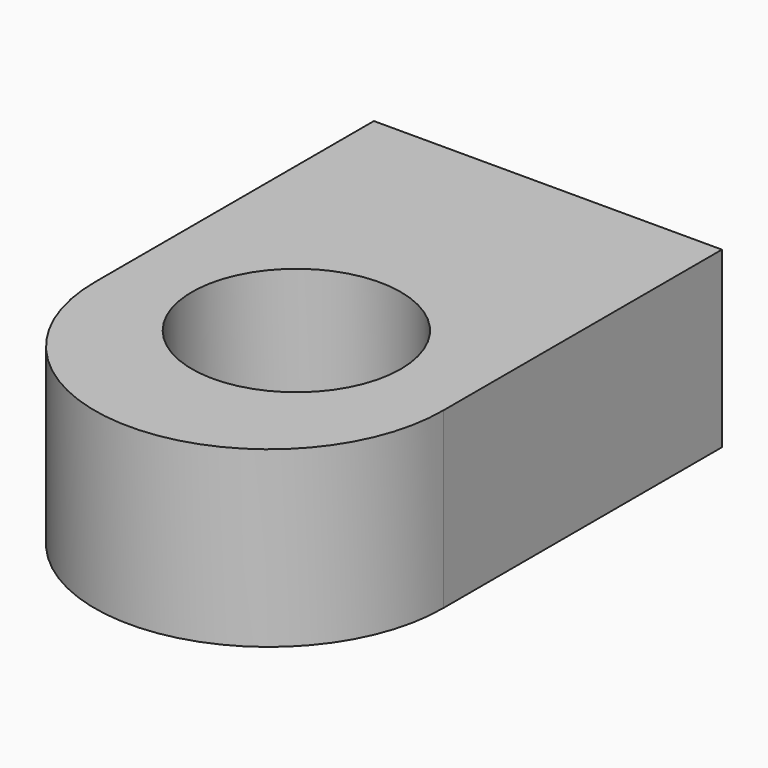
from build123d import *

# Parameters (mm, degrees)
F0_W     = 25.4
F0_H     = 25.4
F1_DEPTH = 12.7
F2_R     = 12.7
F3_DEPTH = 12.7
F4_R     = 7.62
F5_DEPTH = 12.701


with BuildPart() as f1:
    # F0 (on Top) → F1 (new body)
    with BuildSketch(Plane.XY):
        Rectangle(F0_W, F0_H)
    extrude(amount=F1_DEPTH)

    # F2 (on Top) → F3 (join)
    with BuildSketch(Plane.XY):
        with Locations((0, -12.758351)):
            Circle(F2_R)
    extrude(amount=F3_DEPTH)

    # F4 (on face) → F5 (cut, through all)
    with BuildSketch(Plane.XY.offset(12.7)):
        with Locations((0, -10.247545)):
            Circle(F4_R)
    extrude(amount=-F5_DEPTH, mode=Mode.SUBTRACT)


solid = f1.part
